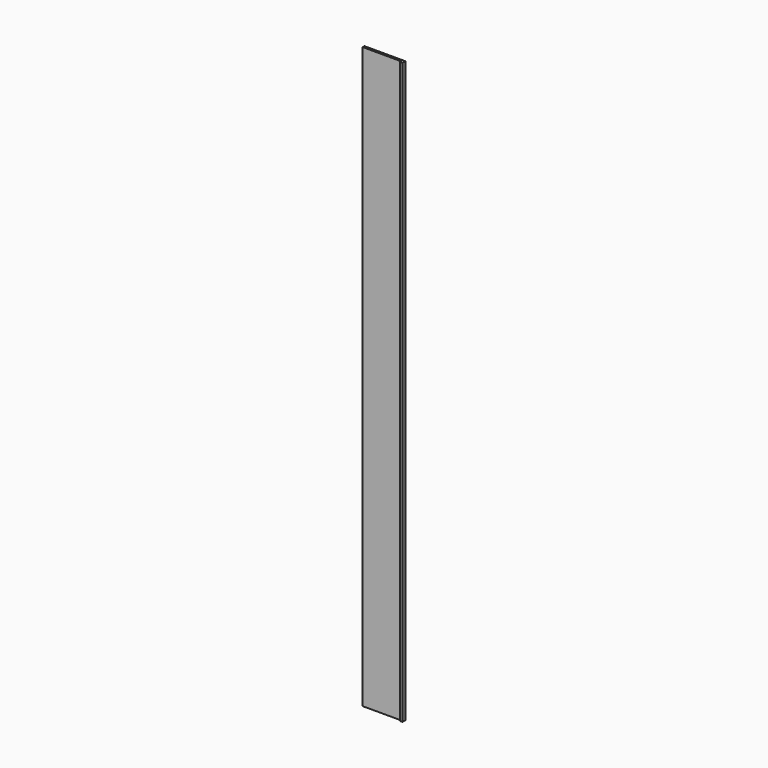
from build123d import *

# Parameters (mm, degrees)
F0_W     = 150
F0_H     = 8.119128
F1_DEPTH = 2126
F2_W     = 10
F2_H     = 5
F3_DEPTH = 2126


with BuildPart() as f1:
    # F0 (on Top) → F1 (new body)
    with BuildSketch(Plane.XY):
        with Locations((-75, 4.059564)):
            Rectangle(F0_W, F0_H)
    extrude(amount=F1_DEPTH)

    # F2 (on Top) → F3 (join, through all)
    with BuildSketch(Plane.XY):
        with Locations((-5, -2.5)):
            Rectangle(F2_W, F2_H)
    extrude(amount=F3_DEPTH)


solid = f1.part
